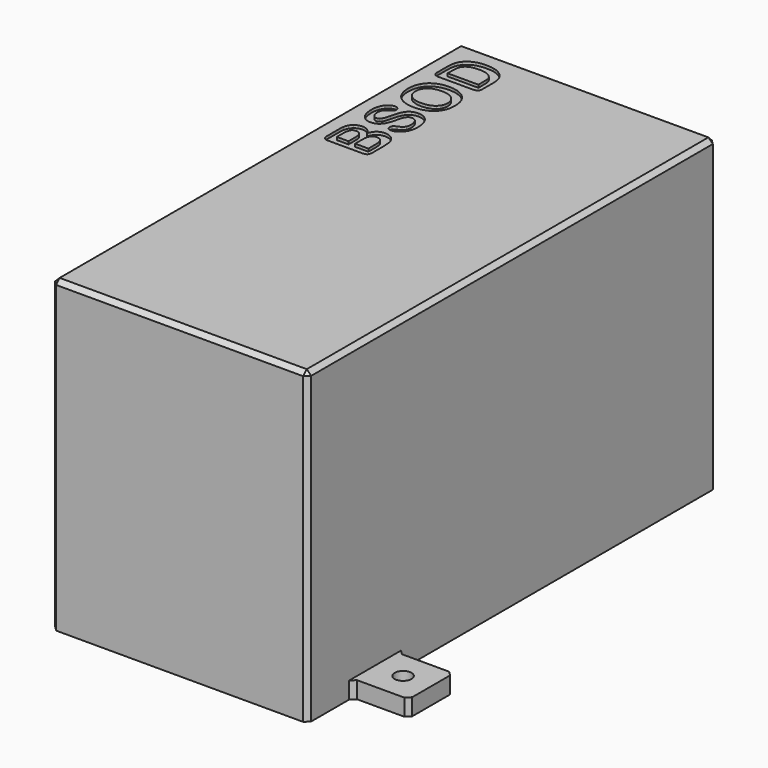
from build123d import *

# Parameters (mm, degrees)
BOX_W           = 57.912
BOX_H           = 115.57
BOX_DEPTH       = 69.85
SKETCH_W        = 52.832
SKETCH_H        = 110.49
POCKET_DEPTH    = 67.31
SKETCH001_W     = 12.7
SKETCH001_H     = 12.7
SKETCH001_R     = 1.905
PAD_DEPTH       = 3.81
CHAMFER_SIZE    = 1
POCKET001_DEPTH = 0.635
PAD001_DEPTH    = 0.635


with BuildPart() as part:
    # Box → Box (join)
    with BuildSketch(Plane.XY):
        with Locations((28.956, 57.785)):
            Rectangle(BOX_W, BOX_H)
    extrude(amount=BOX_DEPTH)

    # Sketch → Pocket (cut)
    with BuildSketch(Plane.XY):
        with Locations((28.956, 57.785)):
            Rectangle(SKETCH_W, SKETCH_H)
    extrude(amount=POCKET_DEPTH, mode=Mode.SUBTRACT)

    # Sketch001 → Pad (join)
    with BuildSketch(Plane.XY):
        with Locations((64.262, 19.05)):
            Rectangle(SKETCH001_W, SKETCH001_H)
        with Locations((64.262, 19.05)):
            Circle(SKETCH001_R, mode=Mode.SUBTRACT)
        with Locations((-6.35, 96.52)):
            Rectangle(SKETCH001_W, SKETCH001_H)
        with Locations((-6.35, 96.52)):
            Circle(SKETCH001_R, mode=Mode.SUBTRACT)
    extrude(amount=PAD_DEPTH)

    # Chamfer
    chamfer_edges = [part.edges().sort_by_distance(p)[0] for p in [
        (70.612, 12.7, 1.905),
        (70.612, 25.4, 1.905),
        (-12.7, 102.87, 1.905),
        (-12.7, 90.17, 1.905),
        (57.912, 25.4, 1.905),
        (57.912, 12.7, 1.905),
        (0, 90.17, 1.905),
        (0, 102.87, 1.905),
        (0, 57.785, 69.85),
        (0, 115.57, 34.925),
        (28.956, 115.57, 69.85),
        (57.912, 57.785, 69.85),
        (57.912, 115.57, 34.925),
        (57.912, 0, 34.925),
        (0, 0, 34.925),
        (28.956, 0, 69.85),
    ]]
    chamfer(chamfer_edges, length=CHAMFER_SIZE)

    # Sketch002 → Pocket001 (cut)
    with BuildSketch(Plane(origin=(3.81, 71.628, 69.85), x_dir=(0, 1, 0), z_dir=(0, 0, 1))):
        with BuildLine():
            add(Edge.make_bspline(
                [(4.393161, -10.430244), (1.259181, -10.430278)],
                knots=[0, 0, 0.926041, 0.926041], degree=1))
            add(Edge.make_bspline(
                [(1.259181, -10.430278), (0.580623, -10.430278), (0.286816, -10.129418)],
                knots=[0, 0, 0, 1, 1, 1], degree=2))
            add(Edge.make_bspline(
                [(0.286816, -10.129418), (0, -9.821788), (0, -9.157052)],
                knots=[0, 0, 0, 1, 1, 1], degree=2))
            add(Edge.make_bspline(
                [(0, -9.157052), (0, -1.448081)],
                knots=[0, 0, 2.27789, 2.27789], degree=1))
            add(Edge.make_bspline(
                [(0, -1.448081), (0, -0.769503), (0.293821, -0.475715)],
                knots=[0, 0, 0, 1, 1, 1], degree=2))
            add(Edge.make_bspline(
                [(0.293821, -0.475715), (0.594614, -0.174855), (1.259191, -0.174855)],
                knots=[0, 0, 0, 1, 1, 1], degree=2))
            add(Edge.make_bspline(
                [(1.259191, -0.174855), (4.582033, -0.174855)],
                knots=[0, 0, 0.981852, 0.981852], degree=1))
            add(Edge.make_bspline(
                [(4.582033, -0.174855), (5.316556, -0.174855), (5.855205, -0.265891)],
                knots=[0, 0, 0, 1, 1, 1], degree=2))
            add(Edge.make_bspline(
                [(5.855205, -0.265891), (6.393854, -0.356928), (6.820579, -0.615688)],
                knots=[0, 0, 0, 1, 1, 1], degree=2))
            add(Edge.make_bspline(
                [(6.820579, -0.615688), (7.184343, -0.832619), (7.46416, -1.168304)],
                knots=[0, 0, 0, 1, 1, 1], degree=2))
            add(Edge.make_bspline(
                [(7.46416, -1.168304), (7.743971, -1.497254), (7.890882, -1.902858)],
                knots=[0, 0, 0, 1, 1, 1], degree=2))
            add(Edge.make_bspline(
                [(7.890882, -1.902858), (8.037792, -2.301591), (8.037792, -2.749295)],
                knots=[0, 0, 0, 1, 1, 1], degree=2))
            add(Edge.make_bspline(
                [(8.037792, -2.749295), (8.037792, -4.288287), (6.498793, -5.001824)],
                knots=[0, 0, 0, 1, 1, 1], degree=2))
            add(Edge.make_bspline(
                [(6.498793, -5.001824), (8.520479, -5.645409), (8.520479, -7.50621)],
                knots=[0, 0, 0, 1, 1, 1], degree=2))
            add(Edge.make_bspline(
                [(8.520479, -7.50621), (8.520479, -8.366658), (8.079767, -9.059179)],
                knots=[0, 0, 0, 1, 1, 1], degree=2))
            add(Edge.make_bspline(
                [(8.079767, -9.059179), (7.639052, -9.744763), (6.890538, -10.073543)],
                knots=[0, 0, 0, 1, 1, 1], degree=2))
            add(Edge.make_bspline(
                [(6.890538, -10.073543), (6.421842, -10.269492), (5.813241, -10.353422)],
                knots=[0, 0, 0, 1, 1, 1], degree=2))
            add(Edge.make_bspline(
                [(5.813241, -10.353422), (5.204636, -10.430244), (4.393161, -10.430244)],
                knots=[0, 0, 0, 1, 1, 1], degree=2))
        make_face()
        with BuildLine():
            add(Edge.make_bspline(
                [(18.111227, -7.35226), (18.111227, -8.282661), (17.628544, -9.024186)],
                knots=[0, 0, 0, 1, 1, 1], degree=2))
            add(Edge.make_bspline(
                [(17.628544, -9.024186), (17.152852, -9.765711), (16.22945, -10.185427)],
                knots=[0, 0, 0, 1, 1, 1], degree=2))
            add(Edge.make_bspline(
                [(16.22945, -10.185427), (15.306052, -10.605143), (14.039875, -10.605143)],
                knots=[0, 0, 0, 1, 1, 1], degree=2))
            add(Edge.make_bspline(
                [(14.039875, -10.605143), (12.521862, -10.605143), (11.535503, -10.031511)],
                knots=[0, 0, 0, 1, 1, 1], degree=2))
            add(Edge.make_bspline(
                [(11.535503, -10.031511), (10.835959, -9.6188), (10.395244, -8.933251)],
                knots=[0, 0, 0, 1, 1, 1], degree=2))
            add(Edge.make_bspline(
                [(10.395244, -8.933251), (9.961527, -8.240696), (9.961527, -7.590106)],
                knots=[0, 0, 0, 1, 1, 1], degree=2))
            add(Edge.make_bspline(
                [(9.961527, -7.590106), (9.961527, -7.212355), (10.220355, -6.946521)],
                knots=[0, 0, 0, 1, 1, 1], degree=2))
            add(Edge.make_bspline(
                [(10.220355, -6.946521), (10.486189, -6.67375), (10.891918, -6.67375)],
                knots=[0, 0, 0, 1, 1, 1], degree=2))
            add(Edge.make_bspline(
                [(10.891918, -6.67375), (11.220699, -6.67375), (11.444557, -6.883574)],
                knots=[0, 0, 0, 1, 1, 1], degree=2))
            add(Edge.make_bspline(
                [(11.444557, -6.883574), (11.675398, -7.093398), (11.836306, -7.506176)],
                knots=[0, 0, 0, 1, 1, 1], degree=2))
            add(Edge.make_bspline(
                [(11.836306, -7.506176), (12.032187, -7.995845), (12.256032, -8.324626)],
                knots=[0, 0, 0, 1, 1, 1], degree=2))
            add(Edge.make_bspline(
                [(12.256032, -8.324626), (12.486872, -8.653237), (12.899613, -8.87027)],
                knots=[0, 0, 0, 1, 1, 1], degree=2))
            add(Edge.make_bspline(
                [(12.899613, -8.87027), (13.312344, -9.080094), (13.983909, -9.080094)],
                knots=[0, 0, 0, 1, 1, 1], degree=2))
            add(Edge.make_bspline(
                [(13.983909, -9.080094), (14.907308, -9.080094), (15.480933, -8.653373)],
                knots=[0, 0, 0, 1, 1, 1], degree=2))
            add(Edge.make_bspline(
                [(15.480933, -8.653373), (16.061557, -8.21968), (16.061557, -7.576095)],
                knots=[0, 0, 0, 1, 1, 1], degree=2))
            add(Edge.make_bspline(
                [(16.061557, -7.576095), (16.061557, -7.06541), (15.746753, -6.75064)],
                knots=[0, 0, 0, 1, 1, 1], degree=2))
            add(Edge.make_bspline(
                [(15.746753, -6.75064), (15.438955, -6.428797), (14.942274, -6.260938)],
                knots=[0, 0, 0, 1, 1, 1], degree=2))
            add(Edge.make_bspline(
                [(14.942274, -6.260938), (14.452592, -6.093079), (13.627131, -5.904169)],
                knots=[0, 0, 0, 1, 1, 1], degree=2))
            add(Edge.make_bspline(
                [(13.627131, -5.904169), (12.521848, -5.645273), (11.773335, -5.302549)],
                knots=[0, 0, 0, 1, 1, 1], degree=2))
            add(Edge.make_bspline(
                [(11.773335, -5.302549), (11.031816, -4.952786), (10.591105, -4.358172)],
                knots=[0, 0, 0, 1, 1, 1], degree=2))
            add(Edge.make_bspline(
                [(10.591105, -4.358172), (10.157385, -3.756586), (10.157385, -2.86815)],
                knots=[0, 0, 0, 1, 1, 1], degree=2))
            add(Edge.make_bspline(
                [(10.157385, -2.86815), (10.157385, -2.021713), (10.619086, -1.364117)],
                knots=[0, 0, 0, 1, 1, 1], degree=2))
            add(Edge.make_bspline(
                [(10.619086, -1.364117), (11.080787, -0.706556), (11.955215, -0.356792)],
                knots=[0, 0, 0, 1, 1, 1], degree=2))
            add(Edge.make_bspline(
                [(11.955215, -0.356792), (12.829647, -2.4e-05), (14.01188, -2.4e-05)],
                knots=[0, 0, 0, 1, 1, 1], degree=2))
            add(Edge.make_bspline(
                [(14.01188, -2.4e-05), (14.956265, -2.4e-05), (15.641821, -0.237937)],
                knots=[0, 0, 0, 1, 1, 1], degree=2))
            add(Edge.make_bspline(
                [(15.641821, -0.237937), (16.334369, -0.468744), (16.789075, -0.860506)],
                knots=[0, 0, 0, 1, 1, 1], degree=2))
            add(Edge.make_bspline(
                [(16.789075, -0.860506), (17.243777, -1.245262), (17.453642, -1.671983)],
                knots=[0, 0, 0, 1, 1, 1], degree=2))
            add(Edge.make_bspline(
                [(17.453642, -1.671983), (17.6635, -2.098705), (17.6635, -2.504444)],
                knots=[0, 0, 0, 1, 1, 1], degree=2))
            add(Edge.make_bspline(
                [(17.6635, -2.504444), (17.6635, -2.875223), (17.397666, -3.176016)],
                knots=[0, 0, 0, 1, 1, 1], degree=2))
            add(Edge.make_bspline(
                [(17.397666, -3.176016), (17.138838, -3.46977), (16.74709, -3.46977)],
                knots=[0, 0, 0, 1, 1, 1], degree=2))
            add(Edge.make_bspline(
                [(16.74709, -3.46977), (16.390321, -3.46977), (16.201442, -3.294804)],
                knots=[0, 0, 0, 1, 1, 1], degree=2))
            add(Edge.make_bspline(
                [(16.201442, -3.294804), (16.019572, -3.113069), (15.802702, -2.707195)],
                knots=[0, 0, 0, 1, 1, 1], degree=2))
            add(Edge.make_bspline(
                [(15.802702, -2.707195), (15.522891, -2.126557), (15.13114, -1.804782)],
                knots=[0, 0, 0, 1, 1, 1], degree=2))
            add(Edge.make_bspline(
                [(15.13114, -1.804782), (14.739395, -1.47617), (13.871958, -1.47617)],
                knots=[0, 0, 0, 1, 1, 1], degree=2))
            add(Edge.make_bspline(
                [(13.871958, -1.47617), (13.067479, -1.47617), (12.570802, -1.832939)],
                knots=[0, 0, 0, 1, 1, 1], degree=2))
            add(Edge.make_bspline(
                [(12.570802, -1.832939), (12.08112, -2.182702), (12.08112, -2.679376)],
                knots=[0, 0, 0, 1, 1, 1], degree=2))
            add(Edge.make_bspline(
                [(12.08112, -2.679376), (12.08112, -2.987005), (12.249013, -3.211043)],
                knots=[0, 0, 0, 1, 1, 1], degree=2))
            add(Edge.make_bspline(
                [(12.249013, -3.211043), (12.416906, -3.434743), (12.71071, -3.595766)],
                knots=[0, 0, 0, 1, 1, 1], degree=2))
            add(Edge.make_bspline(
                [(12.71071, -3.595766), (13.004532, -3.756518), (13.305325, -3.847555)],
                knots=[0, 0, 0, 1, 1, 1], degree=2))
            add(Edge.make_bspline(
                [(13.305325, -3.847555), (13.606118, -3.938591), (14.298679, -4.113558)],
                knots=[0, 0, 0, 1, 1, 1], degree=2))
            add(Edge.make_bspline(
                [(14.298679, -4.113558), (15.166116, -4.316275), (15.865663, -4.561261)],
                knots=[0, 0, 0, 1, 1, 1], degree=2))
            add(Edge.make_bspline(
                [(15.865663, -4.561261), (16.572201, -4.805943), (17.061884, -5.155876)],
                knots=[0, 0, 0, 1, 1, 1], degree=2))
            add(Edge.make_bspline(
                [(17.061884, -5.155876), (17.558561, -5.505639), (17.831383, -6.044278)],
                knots=[0, 0, 0, 1, 1, 1], degree=2))
            add(Edge.make_bspline(
                [(17.831383, -6.044278), (18.111194, -6.575945), (18.111194, -7.352429)],
                knots=[0, 0, 0, 1, 1, 1], degree=2))
            add(Edge.make_bspline(
                [(18.111194, -7.352429), (18.111227, -7.35226)],
                knots=[0, 0, 5.1e-05, 5.1e-05], degree=1))
        make_face()
        with BuildLine():
            add(Edge.make_bspline(
                [(24.386149, -5.8e-05), (25.981114, -5.8e-05), (27.121372, -0.650614)],
                knots=[0, 0, 0, 1, 1, 1], degree=2))
            add(Edge.make_bspline(
                [(27.121372, -0.650614), (28.268626, -1.294198), (28.856245, -2.490433)],
                knots=[0, 0, 0, 1, 1, 1], degree=2))
            add(Edge.make_bspline(
                [(28.856245, -2.490433), (29.443864, -3.679662), (29.443864, -5.288606)],
                knots=[0, 0, 0, 1, 1, 1], degree=2))
            add(Edge.make_bspline(
                [(29.443864, -5.288606), (29.443864, -6.477835), (29.122055, -7.450201)],
                knots=[0, 0, 0, 1, 1, 1], degree=2))
            add(Edge.make_bspline(
                [(29.122055, -7.450201), (28.80028, -8.422566), (28.156681, -9.136103)],
                knots=[0, 0, 0, 1, 1, 1], degree=2))
            add(Edge.make_bspline(
                [(28.156681, -9.136103), (27.5131, -9.849641), (26.575711, -10.227392)],
                knots=[0, 0, 0, 1, 1, 1], degree=2))
            add(Edge.make_bspline(
                [(26.575711, -10.227392), (25.638318, -10.605143), (24.428107, -10.605143)],
                knots=[0, 0, 0, 1, 1, 1], degree=2))
            add(Edge.make_bspline(
                [(24.428107, -10.605143), (23.224888, -10.605143), (22.273508, -10.220386)],
                knots=[0, 0, 0, 1, 1, 1], degree=2))
            add(Edge.make_bspline(
                [(22.273508, -10.220386), (21.322125, -9.828658), (20.685539, -9.122126)],
                knots=[0, 0, 0, 1, 1, 1], degree=2))
            add(Edge.make_bspline(
                [(20.685539, -9.122126), (20.048953, -8.415561), (19.720165, -7.422213)],
                knots=[0, 0, 0, 1, 1, 1], degree=2))
            add(Edge.make_bspline(
                [(19.720165, -7.422213), (19.39839, -6.428865), (19.39839, -5.274629)],
                knots=[0, 0, 0, 1, 1, 1], degree=2))
            add(Edge.make_bspline(
                [(19.39839, -5.274629), (19.39839, -4.092372), (19.734176, -3.10603)],
                knots=[0, 0, 0, 1, 1, 1], degree=2))
            add(Edge.make_bspline(
                [(19.734176, -3.10603), (20.076951, -2.119653), (20.720532, -1.427132)],
                knots=[0, 0, 0, 1, 1, 1], degree=2))
            add(Edge.make_bspline(
                [(20.720532, -1.427132), (21.364114, -0.734577), (22.287516, -0.370803)],
                knots=[0, 0, 0, 1, 1, 1], degree=2))
            add(Edge.make_bspline(
                [(22.287516, -0.370803), (23.210914, -5.8e-05), (24.386149, -5.8e-05)],
                knots=[0, 0, 0, 1, 1, 1], degree=2))
        make_face()
        with BuildLine():
            add(Edge.make_bspline(
                [(32.507872, -0.174922), (35.21511, -0.174922)],
                knots=[0, 0, 0.79995, 0.79995], degree=1))
            add(Edge.make_bspline(
                [(35.21511, -0.174922), (36.271426, -0.174922), (37.026934, -0.370871)],
                knots=[0, 0, 0, 1, 1, 1], degree=2))
            add(Edge.make_bspline(
                [(37.026934, -0.370871), (37.782443, -0.566819), (38.398044, -1.105391)],
                knots=[0, 0, 0, 1, 1, 1], degree=2))
            add(Edge.make_bspline(
                [(38.398044, -1.105391), (40, -2.47649), (40, -5.274697)],
                knots=[0, 0, 0, 1, 1, 1], degree=2))
            add(Edge.make_bspline(
                [(40, -5.274697), (40, -6.198092), (39.839112, -6.9606)],
                knots=[0, 0, 0, 1, 1, 1], degree=2))
            add(Edge.make_bspline(
                [(39.839112, -6.9606), (39.678224, -7.723107), (39.342435, -8.338704)],
                knots=[0, 0, 0, 1, 1, 1], degree=2))
            add(Edge.make_bspline(
                [(39.342435, -8.338704), (39.006649, -8.947296), (38.481994, -9.429993)],
                knots=[0, 0, 0, 1, 1, 1], degree=2))
            add(Edge.make_bspline(
                [(38.481994, -9.429993), (38.069263, -9.800738), (37.579581, -10.024607)],
                knots=[0, 0, 0, 1, 1, 1], degree=2))
            add(Edge.make_bspline(
                [(37.579581, -10.024607), (37.089899, -10.248307), (36.523269, -10.339343)],
                knots=[0, 0, 0, 1, 1, 1], degree=2))
            add(Edge.make_bspline(
                [(36.523269, -10.339343), (35.963631, -10.43038), (35.257092, -10.43038)],
                knots=[0, 0, 0, 1, 1, 1], degree=2))
            add(Edge.make_bspline(
                [(35.257092, -10.43038), (32.54985, -10.43038)],
                knots=[0, 0, 0.799951, 0.799951], degree=1))
            add(Edge.make_bspline(
                [(32.54985, -10.43038), (31.98322, -10.43038), (31.696407, -10.26252)],
                knots=[0, 0, 0, 1, 1, 1], degree=2))
            add(Edge.make_bspline(
                [(31.696407, -10.26252), (31.409591, -10.087554), (31.318653, -9.779824)],
                knots=[0, 0, 0, 1, 1, 1], degree=2))
            add(Edge.make_bspline(
                [(31.318653, -9.779824), (31.234689, -9.465087), (31.234689, -8.968346)],
                knots=[0, 0, 0, 1, 1, 1], degree=2))
            add(Edge.make_bspline(
                [(31.234689, -8.968346), (31.234689, -1.44825)],
                knots=[0, 0, 2.22208, 2.22208], degree=1))
            add(Edge.make_bspline(
                [(31.234689, -1.44825), (31.234689, -0.776677), (31.535482, -0.475884)],
                knots=[0, 0, 0, 1, 1, 1], degree=2))
            add(Edge.make_bspline(
                [(31.535482, -0.475884), (31.836275, -0.175024), (32.507851, -0.175024)],
                knots=[0, 0, 0, 1, 1, 1], degree=2))
            add(Edge.make_bspline(
                [(32.507851, -0.175024), (32.507872, -0.174922)],
                knots=[0, 0, 3.1e-05, 3.1e-05], degree=1))
        make_face()
    extrude(amount=-POCKET001_DEPTH, mode=Mode.SUBTRACT)

    # Sketch003 → Pad001 (join)
    with BuildSketch(Plane(origin=(3.81, 71.628, 69.85), x_dir=(0, 1, 0), z_dir=(0, 0, 1))):
        with BuildLine():
            add(Edge.make_bspline(
                [(4.239262, -5.876215), (2.077668, -5.876215)],
                knots=[0, 0, 0.63872, 0.63872], degree=1))
            add(Edge.make_bspline(
                [(2.077668, -5.876215), (2.077668, -8.87027)],
                knots=[0, 0, 0.8847, 0.8847], degree=1))
            add(Edge.make_bspline(
                [(2.077668, -8.87027), (4.309218, -8.87027)],
                knots=[0, 0, 0.659391, 0.659391], degree=1))
            add(Edge.make_bspline(
                [(4.309218, -8.87027), (6.414847, -8.87027), (6.414847, -7.35226)],
                knots=[0, 0, 0, 1, 1, 1], degree=2))
            add(Edge.make_bspline(
                [(6.414847, -7.35226), (6.414847, -6.575776), (5.869203, -6.226012)],
                knots=[0, 0, 0, 1, 1, 1], degree=2))
            add(Edge.make_bspline(
                [(5.869203, -6.226012), (5.323558, -5.876215), (4.239262, -5.876215)],
                knots=[0, 0, 0, 1, 1, 1], degree=2))
        make_face()
        with BuildLine():
            add(Edge.make_bspline(
                [(2.077668, -1.734931), (2.077668, -4.386193)],
                knots=[0, 0, 0.78341, 0.78341], degree=1))
            add(Edge.make_bspline(
                [(2.077668, -4.386193), (3.98043, -4.386193)],
                knots=[0, 0, 0.562239, 0.562239], degree=1))
            add(Edge.make_bspline(
                [(3.98043, -4.386193), (4.756925, -4.386193), (5.176655, -4.239317)],
                knots=[0, 0, 0, 1, 1, 1], degree=2))
            add(Edge.make_bspline(
                [(5.176655, -4.239317), (5.603376, -4.09244), (5.827231, -3.679695)],
                knots=[0, 0, 0, 1, 1, 1], degree=2))
            add(Edge.make_bspline(
                [(5.827231, -3.679695), (6.00213, -3.385942), (6.00213, -3.0221)],
                knots=[0, 0, 0, 1, 1, 1], degree=2))
            add(Edge.make_bspline(
                [(6.00213, -3.0221), (6.00213, -2.245615), (5.44949, -1.993793)],
                knots=[0, 0, 0, 1, 1, 1], degree=2))
            add(Edge.make_bspline(
                [(5.44949, -1.993793), (4.896847, -1.734897), (3.763584, -1.734897)],
                knots=[0, 0, 0, 1, 1, 1], degree=2))
            add(Edge.make_bspline(
                [(3.763584, -1.734897), (2.077668, -1.734931)],
                knots=[0, 0, 0.498164, 0.498164], degree=1))
        make_face()
        with BuildLine():
            add(Edge.make_bspline(
                [(27.338232, -5.274629), (27.338232, -4.148348), (26.974468, -3.322893)],
                knots=[0, 0, 0, 1, 1, 1], degree=2))
            add(Edge.make_bspline(
                [(26.974468, -3.322893), (26.610704, -2.497438), (25.932147, -2.077688)],
                knots=[0, 0, 0, 1, 1, 1], degree=2))
            add(Edge.make_bspline(
                [(25.932147, -2.077688), (25.260581, -1.650967), (24.386149, -1.650967)],
                knots=[0, 0, 0, 1, 1, 1], degree=2))
            add(Edge.make_bspline(
                [(24.386149, -1.650967), (23.763557, -1.650967), (23.2319, -1.888881)],
                knots=[0, 0, 0, 1, 1, 1], degree=2))
            add(Edge.make_bspline(
                [(23.2319, -1.888881), (22.707242, -2.119687), (22.322492, -2.567458)],
                knots=[0, 0, 0, 1, 1, 1], degree=2))
            add(Edge.make_bspline(
                [(22.322492, -2.567458), (21.944737, -3.015162), (21.720882, -3.714689)],
                knots=[0, 0, 0, 1, 1, 1], degree=2))
            add(Edge.make_bspline(
                [(21.720882, -3.714689), (21.504019, -4.407244), (21.504019, -5.274697)],
                knots=[0, 0, 0, 1, 1, 1], degree=2))
            add(Edge.make_bspline(
                [(21.504019, -5.274697), (21.504019, -6.149122), (21.720882, -6.855654)],
                knots=[0, 0, 0, 1, 1, 1], degree=2))
            add(Edge.make_bspline(
                [(21.720882, -6.855654), (21.944751, -7.562186), (22.343478, -8.030906)],
                knots=[0, 0, 0, 1, 1, 1], degree=2))
            add(Edge.make_bspline(
                [(22.343478, -8.030906), (22.749213, -8.492587), (23.26688, -8.723427)],
                knots=[0, 0, 0, 1, 1, 1], degree=2))
            add(Edge.make_bspline(
                [(23.26688, -8.723427), (23.791538, -8.954233), (24.414134, -8.954233)],
                knots=[0, 0, 0, 1, 1, 1], degree=2))
            add(Edge.make_bspline(
                [(24.414134, -8.954233), (25.211614, -8.954233), (25.876181, -8.5555)],
                knots=[0, 0, 0, 1, 1, 1], degree=2))
            add(Edge.make_bspline(
                [(25.876181, -8.5555), (26.547747, -8.156733), (26.939492, -7.324272)],
                knots=[0, 0, 0, 1, 1, 1], degree=2))
            add(Edge.make_bspline(
                [(26.939492, -7.324272), (27.338232, -6.491812), (27.338232, -5.274629)],
                knots=[0, 0, 0, 1, 1, 1], degree=2))
        make_face()
        with BuildLine():
            add(Edge.make_bspline(
                [(33.312347, -1.81886), (33.312347, -8.779335)],
                knots=[0, 0, 2.05672, 2.05672], degree=1))
            add(Edge.make_bspline(
                [(33.312347, -8.779335), (34.886326, -8.779335)],
                knots=[0, 0, 0.465088, 0.465088], degree=1))
            add(Edge.make_bspline(
                [(34.886326, -8.779335), (35.403989, -8.779335), (35.697797, -8.752261)],
                knots=[0, 0, 0, 1, 1, 1], degree=2))
            add(Edge.make_bspline(
                [(35.697797, -8.752261), (35.991618, -8.725187), (36.306402, -8.612491)],
                knots=[0, 0, 0, 1, 1, 1], degree=2))
            add(Edge.make_bspline(
                [(36.306402, -8.612491), (36.621206, -8.500472), (36.852046, -8.297755)],
                knots=[0, 0, 0, 1, 1, 1], degree=2))
            add(Edge.make_bspline(
                [(36.852046, -8.297755), (37.894371, -7.416358), (37.894371, -5.261735)],
                knots=[0, 0, 0, 1, 1, 1], degree=2))
            add(Edge.make_bspline(
                [(37.894371, -5.261735), (37.894371, -3.743726), (37.43267, -2.988223)],
                knots=[0, 0, 0, 1, 1, 1], degree=2))
            add(Edge.make_bspline(
                [(37.43267, -2.988223), (36.977964, -2.232721), (36.306402, -2.029835)],
                knots=[0, 0, 0, 1, 1, 1], degree=2))
            add(Edge.make_bspline(
                [(36.306402, -2.029835), (35.63484, -1.820011), (34.683456, -1.820011)],
                knots=[0, 0, 0, 1, 1, 1], degree=2))
            add(Edge.make_bspline(
                [(34.683456, -1.820011), (33.312347, -1.81886)],
                knots=[0, 0, 0.405143, 0.405143], degree=1))
        make_face()
    extrude(amount=-PAD001_DEPTH)


solid = part.part
